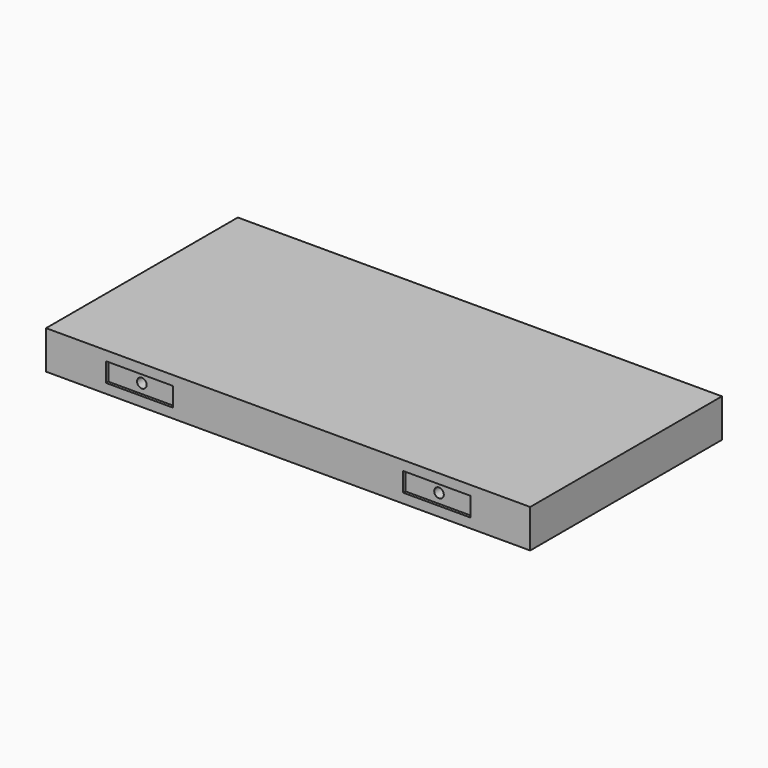
from build123d import *

# Parameters (mm, degrees)
F0_W     = 505
F0_H     = 250
F1_DEPTH = 40
F2_W     = 70
F2_H     = 20
F3_DEPTH = 3
F4_R     = 5
F5_DEPTH = 110


with BuildPart() as f1:
    # F0 (on Top) → F1 (new body)
    with BuildSketch(Plane.XY):
        Rectangle(F0_W, F0_H)
    extrude(amount=F1_DEPTH)

    # F2 (on face) → F3 (cut)
    with BuildSketch(Plane.XZ.offset(125)):
        with Locations((155, 20)):
            Rectangle(F2_W, F2_H)
        with Locations((-155, 20)):
            Rectangle(F2_W, F2_H)
    extrude(amount=-F3_DEPTH, mode=Mode.SUBTRACT)

    # F4 (on face) → F5 (cut)
    with BuildSketch(Plane.XZ.offset(122)):
        with Locations((-155, 20)):
            Circle(F4_R)
        with Locations((155, 20)):
            Circle(F4_R)
    extrude(amount=-F5_DEPTH, mode=Mode.SUBTRACT)


solid = f1.part
